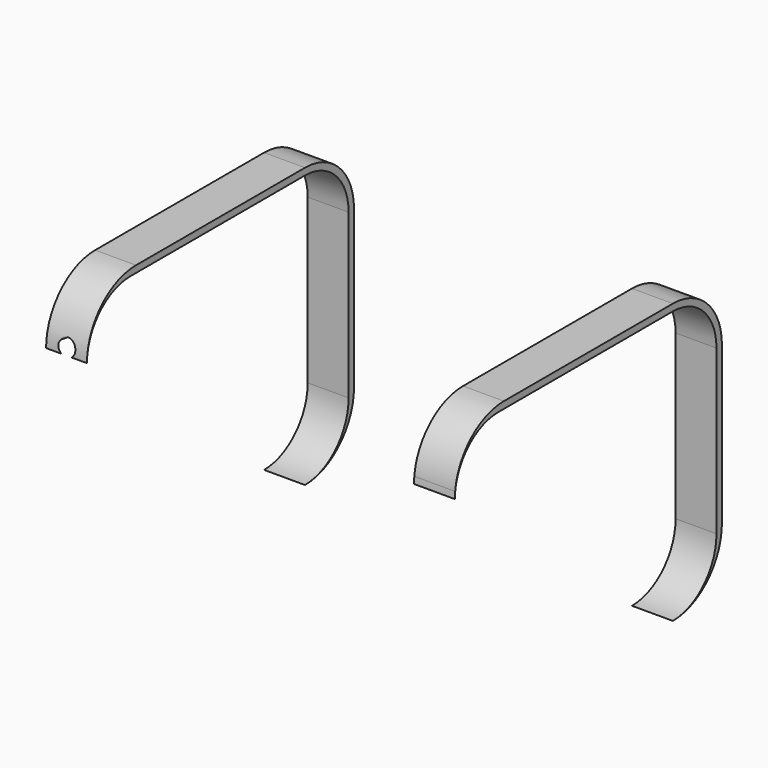
from build123d import *

# Parameters (mm, degrees)
CYLINDER025_R          = 1.25
CYLINDER025_DEPTH      = 15
CYLINDER025_ROLL_ANGLE = 90
CYLINDER026_R          = 1.25
CYLINDER026_DEPTH      = 15
CYLINDER026_ROLL_ANGLE = 90
BOX001_W               = 77
BOX001_H               = 48
BOX001_DEPTH           = 40
FILLET001_R            = 8
BOX014_W               = 6
BOX014_H               = 49
BOX014_DEPTH           = 41
FILLET007_R            = 9
BOX013_W               = 6
BOX013_H               = 49
BOX013_DEPTH           = 41
FILLET006_R            = 9


with BuildPart() as cylinder025:
    # Cylinder025 → Cylinder025 (new body)
    with BuildSketch(Plane.XY):
        Circle(CYLINDER025_R)
    extrude(amount=CYLINDER025_DEPTH)


with BuildPart() as cylinder025_1:
    # Cylinder025 roll: moved
    add(cylinder025.part.rotate(Axis((0, 0, 0), (1, 0, 0)), CYLINDER025_ROLL_ANGLE))


with BuildPart() as cylinder025_2:
    # Cylinder025 placement: moved
    add(cylinder025_1.part.moved(Location((74, 97, 10))))


with BuildPart() as fusion032:
    # Cylinder026 → Cylinder026 (new body)
    with BuildSketch(Plane.XY):
        Circle(CYLINDER026_R)
    extrude(amount=CYLINDER026_DEPTH)


with BuildPart() as fusion032_1:
    # Cylinder026 roll: moved
    add(fusion032.part.rotate(Axis((0, 0, 0), (1, 0, 0)), CYLINDER026_ROLL_ANGLE))


with BuildPart() as fusion032_2:
    # Cylinder026 placement: moved
    add(fusion032_1.part.moved(Location((106, 97, 10))))

    # Fusion032: union Cylinder025
    add(cylinder025_2.part)


with BuildPart() as fusion032_3:
    # Fusion032 placement: moved
    add(fusion032_2.part.moved(Location((0, -8, 0))))


with BuildPart() as fillet001:
    # Box001 → Box001 (new body)
    with BuildSketch(Plane(origin=(62, 82, -27), x_dir=(1, 0, 0), z_dir=(0, 0, 1))):
        with Locations((38.5, 24)):
            Rectangle(BOX001_W, BOX001_H)
    extrude(amount=BOX001_DEPTH)

    # Fillet001
    fillet001_edges = [fillet001.edges().sort_by_distance(p)[0] for p in [
        (100.5, 82, -27),
        (100.5, 82, 13),
        (100.5, 130, -27),
        (100.5, 130, 13),
    ]]
    fillet(fillet001_edges, radius=FILLET001_R)


with BuildPart() as fillet001_1:
    # Fillet001 placement: moved
    add(fillet001.part.moved(Location((0, 0, 4))))


with BuildPart() as fillet007:
    # Box014 → Box014 (new body)
    with BuildSketch(Plane(origin=(71, 82, -23), x_dir=(1, 0, 0), z_dir=(0, 0, 1))):
        with Locations((3, 24.5)):
            Rectangle(BOX014_W, BOX014_H)
    extrude(amount=BOX014_DEPTH)

    # Fillet007
    fillet007_edges = [fillet007.edges().sort_by_distance(p)[0] for p in [
        (74, 82, -23),
        (74, 82, 18),
        (74, 131, -23),
        (74, 131, 18),
    ]]
    fillet(fillet007_edges, radius=FILLET007_R)


with BuildPart() as fillet007_1:
    # Fillet007 placement: moved
    add(fillet007.part.moved(Location((54, 0, 0))))


with BuildPart() as cut024:
    # Box013 → Box013 (new body)
    with BuildSketch(Plane(origin=(71, 82, -23), x_dir=(1, 0, 0), z_dir=(0, 0, 1))):
        with Locations((3, 24.5)):
            Rectangle(BOX013_W, BOX013_H)
    extrude(amount=BOX013_DEPTH)

    # Fillet006
    fillet006_edges = [cut024.edges().sort_by_distance(p)[0] for p in [
        (74, 82, -23),
        (74, 82, 18),
        (74, 131, -23),
        (74, 131, 18),
    ]]
    fillet(fillet006_edges, radius=FILLET006_R)

    # Fusion002: union Fillet007
    add(fillet007_1.part)

    # Cut005: cut Fillet001
    add(fillet001_1.part, mode=Mode.SUBTRACT)

    # Cut024: cut Fusion032
    add(fusion032_3.part, mode=Mode.SUBTRACT)


solid = cut024.part
